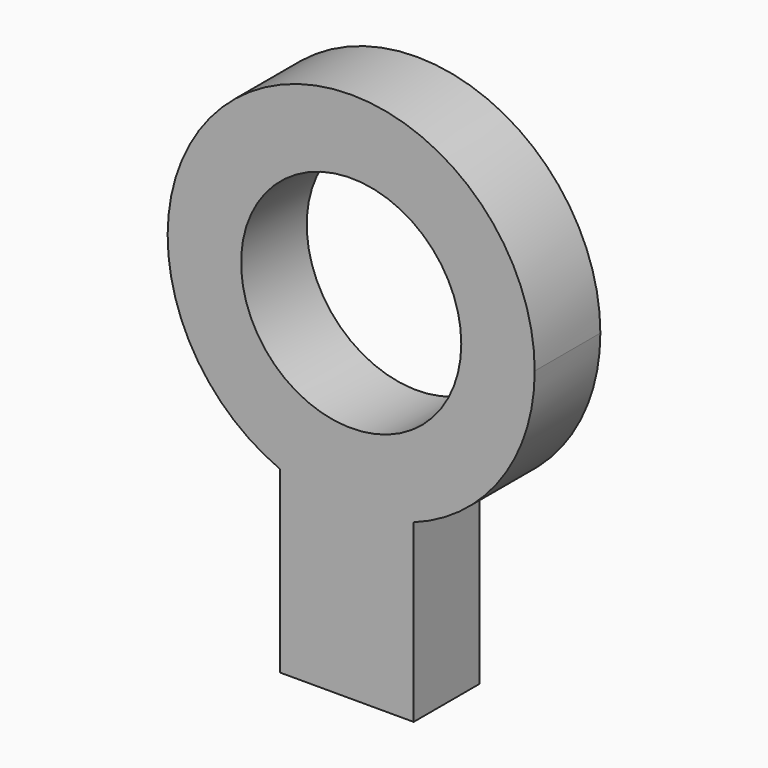
from build123d import *

# Parameters (mm, degrees)
F0_R     = 34.0839137212
F1_DEPTH = 25.4


with BuildPart() as f1:
    # F0 (on Front) → F1 (new body)
    with BuildSketch(Plane.XZ):
        with BuildLine():
            ThreePointArc((19.3380191922, -53.4293892983), (46.5159637147, -32.6331694256), (56.8212867424, 0))
            ThreePointArc((56.8212867424, 0), (-31.4202012773, 47.3437385381), (-22.0727231354, -52.3588915129))
            Line((-22.0727231354, -52.3588915129), (-22.0727231354, -44.1123396158))
            Line((-22.0727231354, -44.1123396158), (19.3380191922, -44.1123396158))
            Line((19.3380191922, -44.1123396158), (19.3380191922, -53.4293892983))
        make_face()
        Circle(F0_R, mode=Mode.SUBTRACT)
        with BuildLine():
            Line((-22.0727231354, -44.1123396158), (-22.0727231354, -52.3588915129))
            ThreePointArc((-22.0727231354, -52.3588915129), (-1.4683810103, -56.802310554), (19.3380191922, -53.4293892983))
            Line((19.3380191922, -53.4293892983), (19.3380191922, -44.1123396158))
            Line((19.3380191922, -44.1123396158), (-22.0727231354, -44.1123396158))
        make_face()
        with BuildLine():
            ThreePointArc((19.3380191922, -53.4293892983), (-1.4683810103, -56.802310554), (-22.0727231354, -52.3588915129))
            Line((-22.0727231354, -52.3588915129), (-22.0727231354, -107.8437715769))
            Line((-22.0727231354, -107.8437715769), (19.3380191922, -107.8437715769))
            Line((19.3380191922, -107.8437715769), (19.3380191922, -53.4293892983))
        make_face()
    extrude(amount=F1_DEPTH)


solid = f1.part
